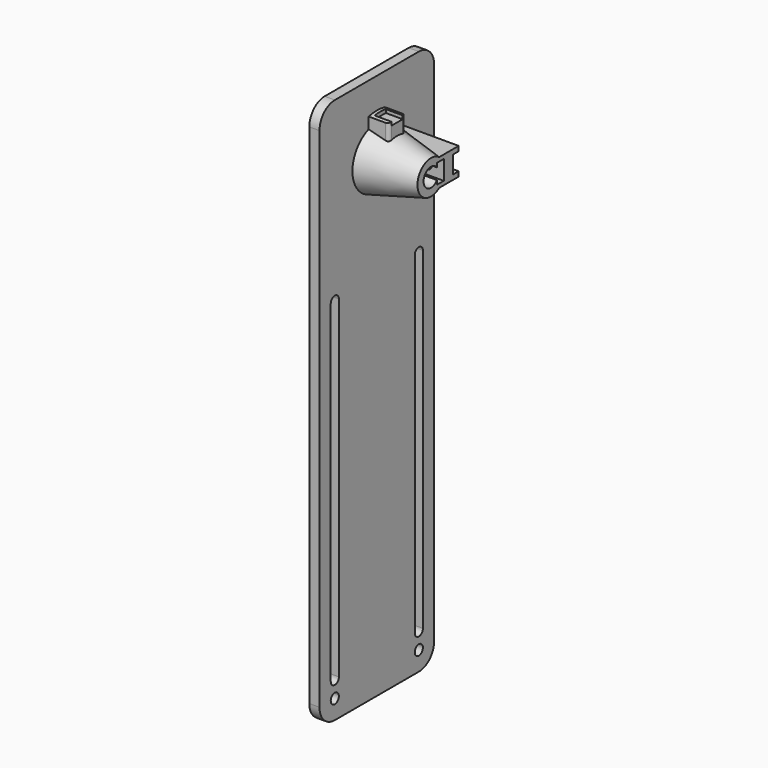
from build123d import *

# Parameters (mm, degrees)
SKETCH028_R     = 1.5
PAD012_DEPTH    = 3
SKETCH029_R     = 9
SKETCH030_R     = 5
PAD018_DEPTH    = 6
POCKET002_DEPTH = 5
FILLET001_R     = 1
SKETCH052_W     = 8
SKETCH052_H     = 8
SKETCH051_W     = 8
SKETCH051_H     = 8
SKETCH053_R     = 1.5
POCKET003_DEPTH = 15
POCKET004_DEPTH = 2.5
POCKET005_DEPTH = 2


with BuildPart() as part:
    # Sketch028 (on Face1 of Binder008) → Pad012 (new body)
    with BuildSketch(Plane(origin=(-61, 0, 0), x_dir=(0, -1, 0), z_dir=(-1, 0, 0))):
        with BuildLine():
            Line((-21.15, 15.5), (-21.15, -134.35))
            ThreePointArc((-21.15, -134.35), (-19.495153, -138.345153), (-15.5, -140))
            Line((-15.5, -140), (15.5, -140))
            ThreePointArc((15.5, -140), (19.495153, -138.345153), (21.15, -134.35))
            Line((21.15, 15.5), (21.15, -134.35))
            ThreePointArc((21.15, 15.5), (19.495153, 19.495153), (15.5, 21.15))
            Line((-15.5, 21.15), (15.5, 21.15))
            ThreePointArc((-15.5, 21.15), (-19.495153, 19.495153), (-21.15, 15.5))
        make_face()
        with Locations((15.5, -134.35)):
            Circle(SKETCH028_R, mode=Mode.SUBTRACT)
        with Locations((-15.5, -134.35)):
            Circle(SKETCH028_R, mode=Mode.SUBTRACT)
        with BuildLine():
            ThreePointArc((17, -31.15), (15.5, -29.65), (14, -31.15))
            Line((14, -31.15), (14, -129.35))
            ThreePointArc((14, -129.35), (15.5, -130.85), (17, -129.35))
            Line((17, -129.35), (17, -31.15))
        make_face(mode=Mode.SUBTRACT)
        with BuildLine():
            ThreePointArc((-14, -31.15), (-15.5, -29.65), (-17, -31.15))
            Line((-17, -31.15), (-17, -129.35))
            ThreePointArc((-17, -129.35), (-15.5, -130.85), (-14, -129.35))
            Line((-14, -129.35), (-14, -31.15))
        make_face(mode=Mode.SUBTRACT)
        with BuildLine():
            ThreePointArc((-2.2, -1.65), (2.75, 0), (-2.2, 1.65))
            Line((-2.2, 1.65), (-2.2, -1.65))
        make_face(mode=Mode.SUBTRACT)
    extrude(amount=PAD012_DEPTH)

    # Sketch029 (on Face21 of Pad012) → AdditiveLoft002 section 0
    with BuildSketch(Plane.YZ.offset(-61)):
        Circle(SKETCH029_R)
    # Sketch030 (on Face21 of Pad012) → AdditiveLoft002 section 1
    with BuildSketch(Plane.YZ.offset(-45)):
        Circle(SKETCH030_R)
    loft()

    # Sketch033 (on Face21 of Pad012) → SubtractiveLoft section 0
    with BuildSketch(Plane.YZ.offset(-61)):
        with BuildLine():
            ThreePointArc((2.2, 1.65), (-2.75, 0), (2.2, -1.65))
            Line((2.2, 1.65), (2.2, -1.65))
        make_face()
    # Sketch032 (on Binder) → SubtractiveLoft section 1
    with BuildSketch(Plane.YZ.offset(-45)):
        with BuildLine():
            ThreePointArc((2.2, 1.65), (-2.75, 0), (2.2, -1.65))
            Line((2.2, 1.65), (2.2, -1.65))
        make_face()
    loft(mode=Mode.SUBTRACT)

    # Sketch041 (on Face4 of SubtractiveLoft) → Pad018 (join)
    with BuildSketch(Plane.YZ.offset(-61)):
        with BuildLine():
            ThreePointArc((3, 11.783809), (0, 12.159693), (-3, 11.783809))
            Line((-3, 11.783809), (-3, 2.75))
            Line((-3, 2.75), (3, 2.75))
            Line((3, 11.783809), (3, 2.75))
        make_face()
    extrude(amount=PAD018_DEPTH)

    # Sketch042 (on Face28 of Pad018) → Pocket002 (cut)
    with BuildSketch(Plane.YZ.offset(-55)):
        with BuildLine():
            Line((-2.05, 10.985643), (2.05, 10.985643))
            Line((2.05, 10.985643), (2.05, 11.985643))
            ThreePointArc((2.05, 11.985643), (0, 12.159693), (-2.05, 11.985643))
            Line((-2.05, 10.985643), (-2.05, 11.985643))
        make_face()
    extrude(amount=-POCKET002_DEPTH, mode=Mode.SUBTRACT)

    # Fillet001
    fillet001_edges = [part.edges().sort_by_distance(p)[0] for p in [
        (-55, -3, 9.328836),
        (-55, 3, 9.328836),
    ]]
    fillet(fillet001_edges, radius=FILLET001_R)

    # Sketch052 (on Face7 of Fillet001) → AdditiveLoft003 section 0
    with BuildSketch(Plane.YZ.offset(-45)):
        with Locations((6.2, 0)):
            Rectangle(SKETCH052_W, SKETCH052_H)
    # Sketch051 (on Face4 of Fillet001) → AdditiveLoft003 section 1
    with BuildSketch(Plane.YZ.offset(-61)):
        with Locations((6.2, 0)):
            Rectangle(SKETCH051_W, SKETCH051_H)
    loft()

    # Sketch053 (on Face39 of AdditiveLoft003) → Pocket003 (cut)
    with BuildSketch(Plane.XZ.offset(-2.2)):
        with Locations((-50, 0)):
            Circle(SKETCH053_R)
    extrude(amount=-POCKET003_DEPTH, mode=Mode.SUBTRACT)

    # Sketch054 (on Face40 of Pocket003) → Pocket004 (cut)
    with BuildSketch(Plane.XZ.offset(-2.2)):
        Polygon((-51.645448, 2.85), (-53.290897, 0), (-51.645448, -2.85), (-48.354552, -2.85), (-45, -2.85), (-45, 2.85), (-48.354552, 2.85), align=None)
    extrude(amount=-POCKET004_DEPTH, mode=Mode.SUBTRACT)

    # Sketch055 (on Face33 of Pocket004) → Pocket005 (cut)
    with BuildSketch(Plane(origin=(0, 10.2, 0), x_dir=(-1, 0, 0), z_dir=(0, 1, 0))):
        with BuildLine():
            ThreePointArc((50, -2.6), (52.6, 0), (50, 2.6))
            Line((50, 2.6), (45, 2.6))
            Line((45, 2.6), (45, -2.6))
            Line((45, -2.6), (50, -2.6))
        make_face()
    extrude(amount=-POCKET005_DEPTH, mode=Mode.SUBTRACT)


solid = part.part
